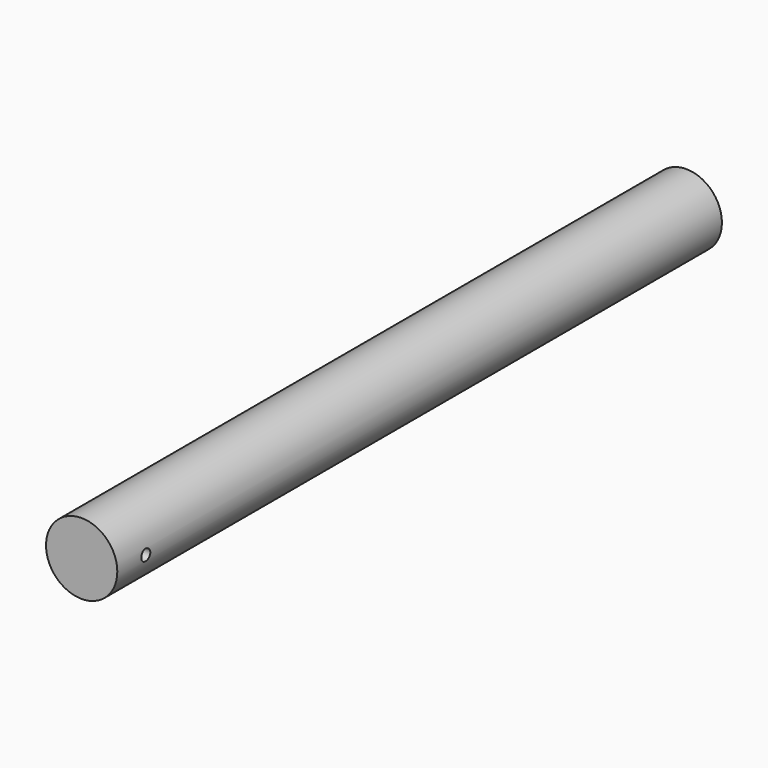
from build123d import *

# Parameters (mm, degrees)
F0_R     = 3.175
F1_DEPTH = 67.31
F2_R     = 0.5
F3_DEPTH = 12.7


with BuildPart() as f1:
    # F0 (on Front) → F1 (new body)
    with BuildSketch(Plane.XZ):
        Circle(F0_R)
    extrude(amount=-F1_DEPTH)

    # F2 (on Right) → F3 (cut, symmetric)
    with BuildSketch(Plane.YZ):
        with Locations((3.175, 0)):
            Circle(F2_R)
    extrude(amount=F3_DEPTH, both=True, mode=Mode.SUBTRACT)


solid = f1.part
